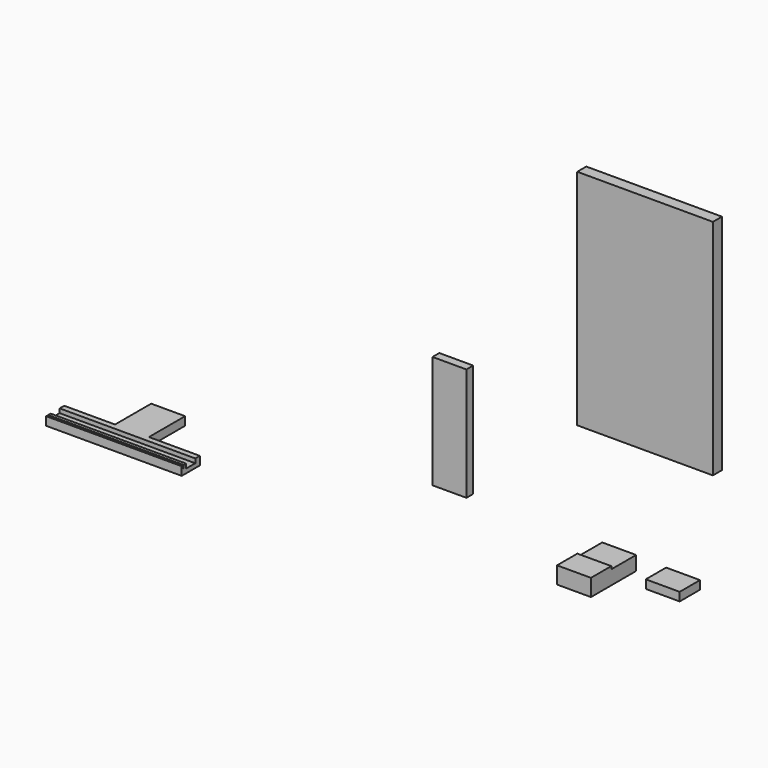
from build123d import *

# Parameters (mm, degrees)
F0_W      = 76.2
F0_H      = 127
F1_DEPTH  = 38.1
F2_W      = 69.85
F2_H      = 6.35
F3_DEPTH  = 76.2
F4_DEPTH  = 76.2
F5_W      = 76.2
F5_H      = 57.15
F6_DEPTH  = 19.05
F7_W      = 304.8
F7_H      = 152.4
F8_DEPTH  = 19.05
F9_W      = 114.3
F9_H      = 101.6
F10_DEPTH = 19.05
F11_W     = 2.54
F11_H     = 6.35
F11_W_2   = 25.4
F11_H_2   = 9.525
F12_DEPTH = 304.8
F13_W     = 76.2
F13_H     = 254
F14_DEPTH = 19.05
F15_W     = 304.8
F15_H     = 501.65
F16_DEPTH = 25.4
F17_W     = 196.85
F17_H     = 361.95
F18_DEPTH = 38.1


with BuildPart() as f1:
    # F0 (on Top) → F1 (new body)
    with BuildSketch(Plane.XY):
        Rectangle(F0_W, F0_H)
    extrude(amount=F1_DEPTH)

    # F2 (on face) → F3 (join, through all)
    with BuildSketch(Plane.YZ.offset(38.1)):
        with Locations((28.575, 34.925)):
            Rectangle(F2_W, F2_H)
    extrude(amount=-F3_DEPTH)

    # F2 (on face) → F4 (cut, through all)
    with BuildSketch(Plane.YZ.offset(38.1)):
        with Locations((28.575, 34.925)):
            Rectangle(F2_W, F2_H)
    extrude(amount=-F4_DEPTH, mode=Mode.SUBTRACT)


with BuildPart() as f6:
    # F5 (on Top) → F6 (new body)
    with BuildSketch(Plane.XY):
        with Locations((131.945428, 49.421202)):
            Rectangle(F5_W, F5_H)
    extrude(amount=F6_DEPTH)


with BuildPart() as f8:
    # F7 (on Top) → F8 (new body)
    with BuildSketch(Plane.XY):
        with Locations((-962.84058, -76.2)):
            Rectangle(F7_W, F7_H)
    extrude(amount=F8_DEPTH)

    # F9 (on face) → F10 (cut, through all)
    with BuildSketch(Plane.XY.offset(19.05)):
        with Locations((-867.59058, -50.8)):
            Rectangle(F9_W, F9_H)
        with Locations((-1058.09058, -50.8)):
            Rectangle(F9_W, F9_H)
    extrude(amount=-F10_DEPTH, mode=Mode.SUBTRACT)

    # F11 (on face) → F12 (cut, through all)
    with BuildSketch(Plane.YZ.offset(-810.44058)):
        with Locations((-147.955, 15.875)):
            Rectangle(F11_W, F11_H)
        with Locations((-127, 14.2875)):
            Rectangle(F11_W_2, F11_H_2)
    extrude(amount=-F12_DEPTH, mode=Mode.SUBTRACT)


with BuildPart() as f14:
    # F13 (on Front) → F14 (new body)
    with BuildSketch(Plane.XZ):
        with Locations((-315.398529, 202.753096)):
            Rectangle(F13_W, F13_H)
    extrude(amount=F14_DEPTH)


with BuildPart() as f16:
    # F15 (on Front) → F16 (new body)
    with BuildSketch(Plane.XZ):
        with Locations((129.24853, 555.286902)):
            Rectangle(F15_W, F15_H)
    extrude(amount=F16_DEPTH)

    # F17 (on face) → F18 (join)
    with BuildSketch(Plane(origin=(0, 0, 0), x_dir=(-1, 0, 0), z_dir=(0, 1, 0))):
        with Locations((-107.02353, 555.286902)):
            Rectangle(F17_W, F17_H)
    extrude(amount=F18_DEPTH)


solid = Compound([f1.part, f6.part, f8.part, f14.part, f16.part])
